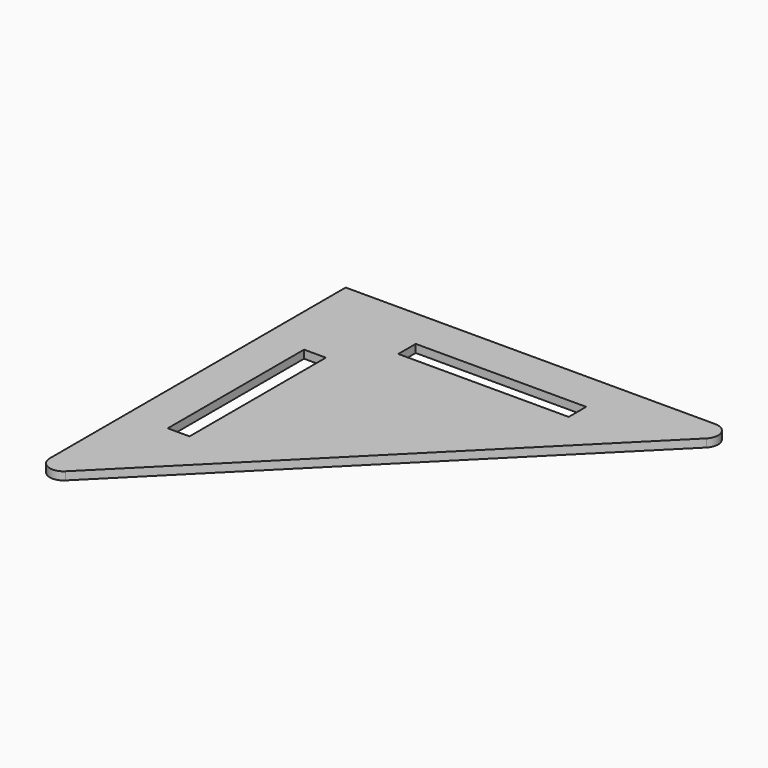
from build123d import *

# Parameters (mm, degrees)
F0_W     = 8.128
F0_H     = 63.5
F0_W_2   = 63.5
F0_H_2   = 8.128
F1_DEPTH = 3
F2_R     = 5.08


with BuildPart() as f1:
    # F0 (on Top) → F1 (new body)
    with BuildSketch(Plane.XY):
        Polygon((77.085001, 76.752045), (-72.914999, 76.752045), (-72.914999, -73.247955), align=None)
        with Locations((-53.864999, 6.902045)):
            Rectangle(F0_W, F0_H, mode=Mode.SUBTRACT)
        with Locations((-3.064999, 57.702045)):
            Rectangle(F0_W_2, F0_H_2, mode=Mode.SUBTRACT)
    extrude(amount=F1_DEPTH)

    # F2
    f2_edges = [f1.edges().sort_by_distance(p)[0] for p in [
        (-72.914999, -73.247955, 1.5),
        (77.085001, 76.752045, 1.5),
    ]]
    fillet(f2_edges, radius=F2_R)


solid = f1.part
